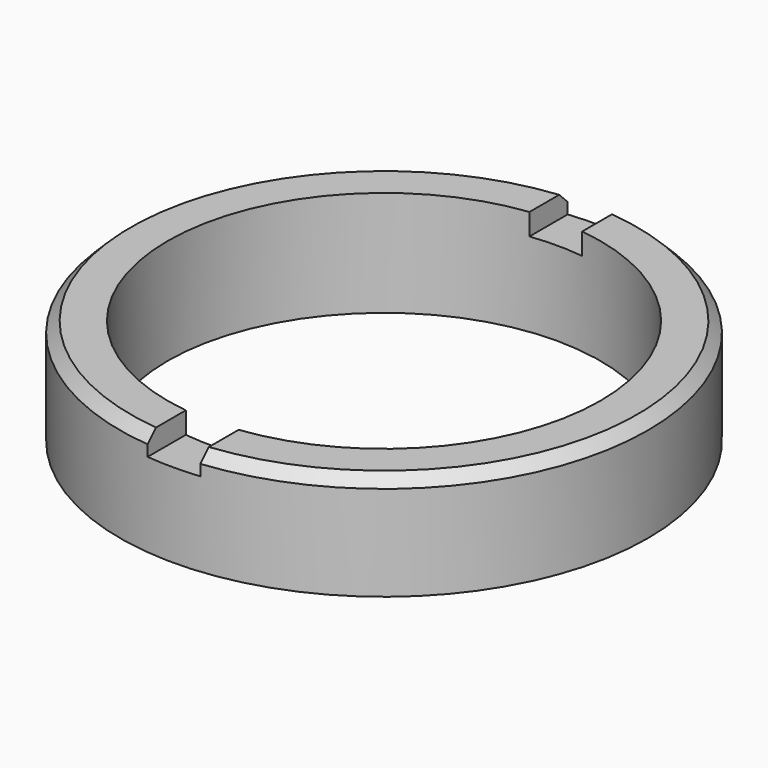
from build123d import *

# Parameters (mm, degrees)
F0_R     = 5
F0_R_2   = 4.1
F1_DEPTH = 2
F2_SIZE  = 0.2
F3_W     = 1
F3_H     = 0.5
F4_DEPTH = 25


with BuildPart() as f1:
    # F0 (on Top) → F1 (new body)
    with BuildSketch(Plane.XY):
        Circle(F0_R)
        Circle(F0_R_2, mode=Mode.SUBTRACT)
    extrude(amount=F1_DEPTH)

    # F2
    f2_edges = [f1.edges().sort_by_distance(p)[0] for p in [
        (-5, 0, 2),
    ]]
    chamfer(f2_edges, length=F2_SIZE)


with BuildPart() as f4:
    # F3 (on Front) → F4 (new body)
    with BuildSketch(Plane.XZ):
        with Locations((0.5, 1.840964)):
            Rectangle(F3_W, F3_H)
    extrude(amount=F4_DEPTH)


with BuildPart() as f4_1:
    # F5: moved
    add(f4.part.moved(Location((-0.5, 13.3, 0))))


with BuildPart() as f1_1:
    add(f1.part)

    # F6: cut F4
    add(f4_1.part, mode=Mode.SUBTRACT)


solid = f1_1.part
